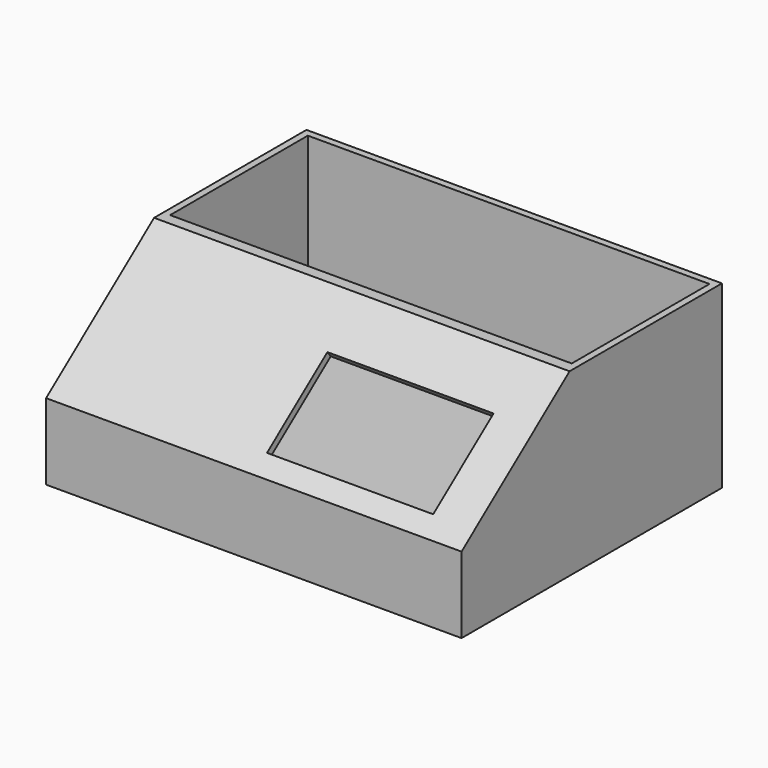
from build123d import *

# Parameters (mm, degrees)
F1_DEPTH = 120
F2_T     = -2
F3_W     = 48
F3_H     = 27.5
F4_DEPTH = 3


with BuildPart() as f1:
    # F0 (on Right) → F1 (new body)
    with BuildSketch(Plane.YZ):
        Polygon((0, 0), (0, 52), (-55, 52), (-94, 22), (-94, 0), align=None)
    extrude(amount=F1_DEPTH)

    # F2
    f2_openings = [f1.faces().sort_by_distance(p)[0] for p in [
        (60, -27.5, 52),
    ]]
    offset(amount=F2_T, openings=f2_openings, kind=Kind.INTERSECTION)

    # F3 (on face) → F4 (cut)
    with BuildSketch(Plane(origin=(0, -45.5762081784, 59.249070632), x_dir=(1, 0, 0), z_dir=(0, -0.6097107608, 0.7926239891))):
        with Locations((84, -41.3430182371)):
            Rectangle(F3_W, F3_H)
    extrude(amount=-F4_DEPTH, mode=Mode.SUBTRACT)


solid = f1.part
